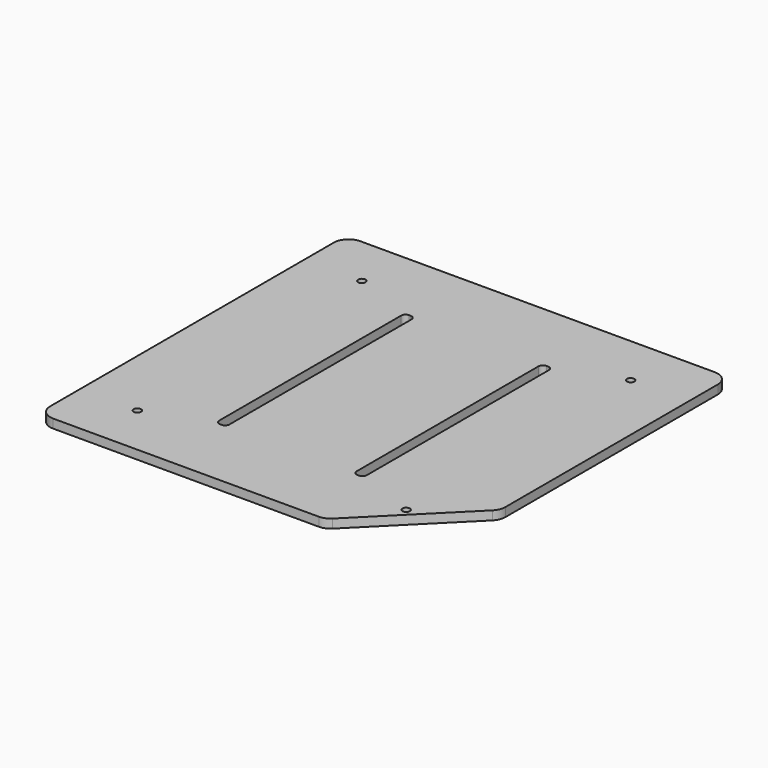
from build123d import *

# Parameters (mm, degrees)
F0_R     = 1.25
F1_DEPTH = 3


with BuildPart() as f1:
    # F0 (on Top) → F1 (new body)
    with BuildSketch(Plane.XY):
        with BuildLine():
            Line((-60, -65), (29.928932, -65))
            ThreePointArc((29.928932, -65), (31.842349, -64.619398), (33.464466, -63.535534))
            Line((33.464466, -63.535534), (63.535534, -33.464466))
            ThreePointArc((63.535534, -33.464466), (64.619398, -31.842349), (65, -29.928932))
            Line((65, -29.928932), (65, 60))
            ThreePointArc((65, 60), (63.535534, 63.535534), (60, 65))
            Line((60, 65), (-60, 65))
            ThreePointArc((-60, 65), (-63.535534, 63.535534), (-65, 60))
            Line((-65, 60), (-65, -60))
            ThreePointArc((-65, -60), (-63.535534, -63.535534), (-60, -65))
        make_face()
        with Locations((-45.5, -47.5)):
            Circle(F0_R, mode=Mode.SUBTRACT)
        with Locations((45.5, -47.5)):
            Circle(F0_R, mode=Mode.SUBTRACT)
        with BuildLine():
            ThreePointArc((-21.5, -38.5), (-21.93934, -39.56066), (-23, -40))
            Line((-23, -40), (-23.5, -40))
            ThreePointArc((-23.5, -40), (-24.56066, -39.56066), (-25, -38.5))
            Line((-25, -38.5), (-25, 38.5))
            ThreePointArc((-25, 38.5), (-24.56066, 39.56066), (-23.5, 40))
            Line((-23.5, 40), (-23, 40))
            ThreePointArc((-23, 40), (-21.93934, 39.56066), (-21.5, 38.5))
            Line((-21.5, 38.5), (-21.5, -38.5))
        make_face(mode=Mode.SUBTRACT)
        with Locations((-45.5, 47.5)):
            Circle(F0_R, mode=Mode.SUBTRACT)
        with BuildLine():
            ThreePointArc((25, -38.5), (24.56066, -39.56066), (23.5, -40))
            Line((23.5, -40), (23, -40))
            ThreePointArc((23, -40), (21.93934, -39.56066), (21.5, -38.5))
            Line((21.5, -38.5), (21.5, 38.5))
            ThreePointArc((21.5, 38.5), (21.93934, 39.56066), (23, 40))
            Line((23, 40), (23.5, 40))
            ThreePointArc((23.5, 40), (24.56066, 39.56066), (25, 38.5))
            Line((25, 38.5), (25, -38.5))
        make_face(mode=Mode.SUBTRACT)
        with Locations((45.5, 47.5)):
            Circle(F0_R, mode=Mode.SUBTRACT)
    extrude(amount=F1_DEPTH)


solid = f1.part
